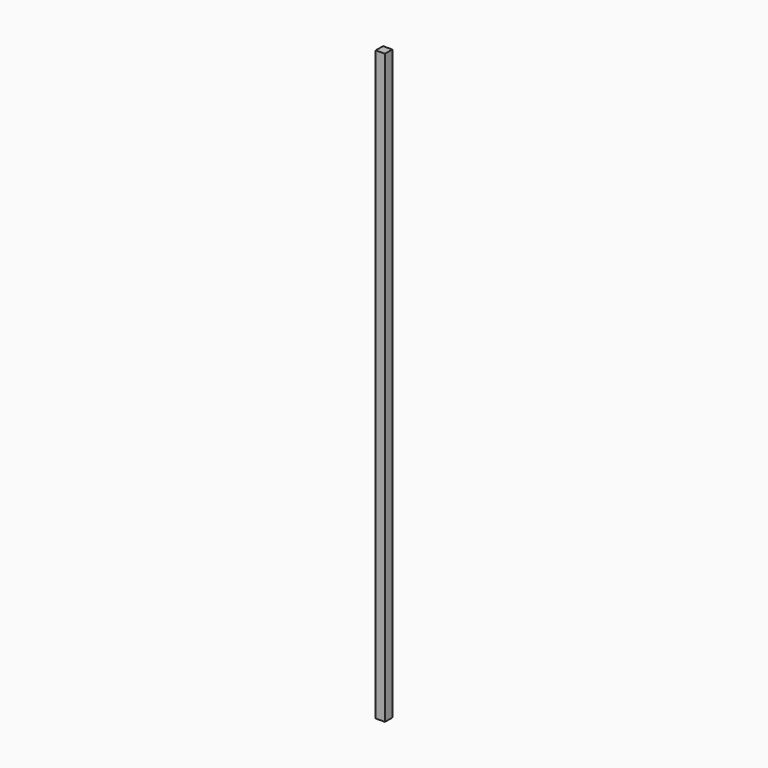
from build123d import *

# Parameters (mm, degrees)
SKETCH_W  = 38.1
SKETCH_H  = 38.1
PAD_DEPTH = 2438.4


with BuildPart() as part:
    # Sketch → Pad (new body)
    with BuildSketch(Plane.XY):
        Rectangle(SKETCH_W, SKETCH_H)
    extrude(amount=PAD_DEPTH)


solid = part.part
